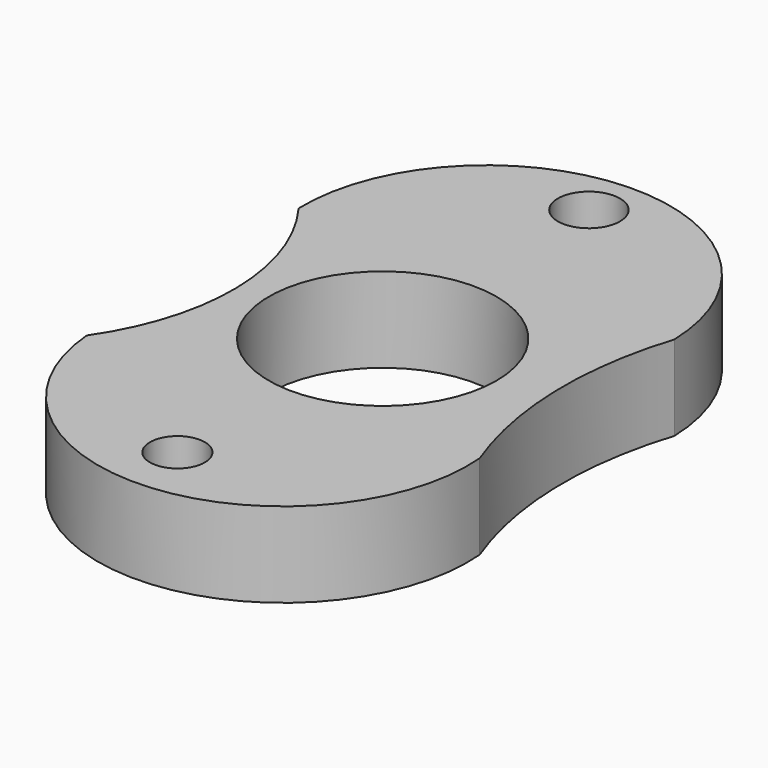
from build123d import *

# Parameters (mm, degrees)
F0_R     = 2.462068
F0_R_2   = 10.213181
F0_R_3   = 2.786344
F1_DEPTH = 7.62


with BuildPart() as f1:
    # F0 (on Top) → F1 (new body)
    with BuildSketch(Plane.XY):
        with BuildLine():
            ThreePointArc((16.643301, -9.924905), (14.415015, 1.322247), (16.032537, 12.67334))
            ThreePointArc((16.032537, 12.67334), (-0.916144, 28.705877), (-16.948681, 11.757195))
            ThreePointArc((-16.948681, 11.757195), (-12.810466, -0.334127), (-16.493937, -12.571649))
            ThreePointArc((-16.493937, -12.571649), (1.398053, -27.816896), (16.643301, -9.924905))
        make_face()
        with Locations((-0.458072, -22.445554)):
            Circle(F0_R, mode=Mode.SUBTRACT)
        Circle(F0_R_2, mode=Mode.SUBTRACT)
        with Locations((-0.916144, 24.277844)):
            Circle(F0_R_3, mode=Mode.SUBTRACT)
    extrude(amount=F1_DEPTH)


solid = f1.part
